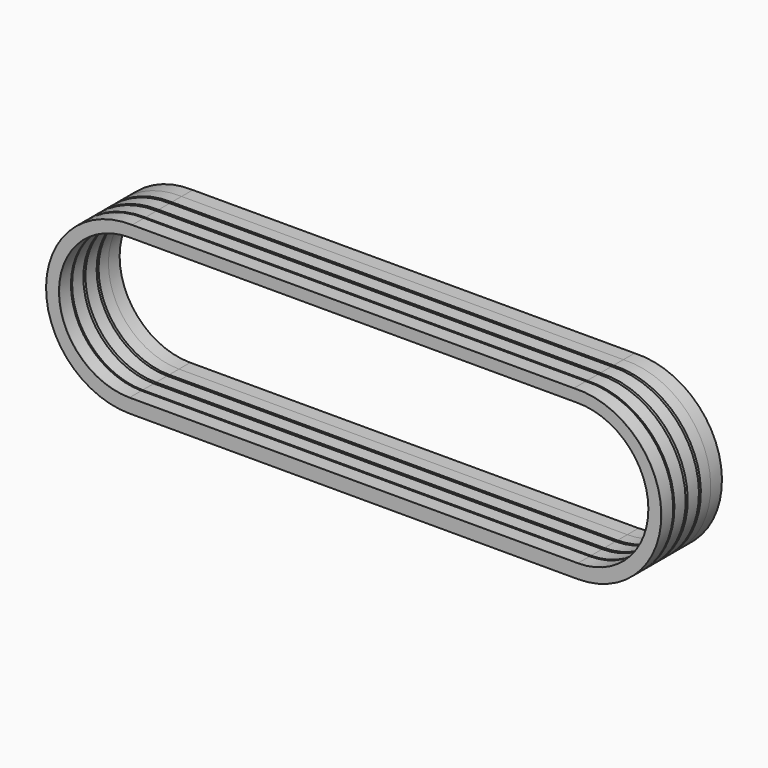
from build123d import *

# Parameters (mm, degrees)
F1_DEPTH = 19.05


with BuildPart() as f1:
    # F0 (on Front) → F1 (new body)
    with BuildSketch(Plane.XZ):
        with BuildLine():
            Line((299.47076, 111.584039), (-301.26875, 111.584039))
            ThreePointArc((-301.26875, 111.584039), (-418.240749, -0.029907), (-304.812952, -115.243867))
            Line((-304.812952, -115.243867), (304.787048, -115.243867))
            ThreePointArc((304.787048, -115.243867), (418.232147, 0.891261), (299.47076, 111.584039))
        make_face()
        with BuildLine():
            ThreePointArc((-304.812952, -96.193867), (-400.727487, -0.279332), (-304.812952, 95.635203))
            Line((-304.812952, 95.635203), (303.014962, 95.635203))
            ThreePointArc((303.014962, 95.635203), (400.705676, 0.614934), (304.787048, -96.193867))
            Line((304.787048, -96.193867), (-304.812952, -96.193867))
        make_face(mode=Mode.SUBTRACT)
    extrude(amount=F1_DEPTH)


with BuildPart() as f2_1:
    # F2: copy of F1
    add(f1.part.moved(Location((0, 22.352, 0))))


with BuildPart() as f3_1:
    # F3: copy of F2_1
    add(f2_1.part.moved(Location((0, -44.958, 0))))


with BuildPart() as f4_1:
    # F4: copy of F2_1
    add(f2_1.part.moved(Location((0, -67.31, 0))))


with BuildPart() as f5_1:
    # F5: copy of F1
    add(f1.part.moved(Location((0, -43.688, 0))))


with BuildPart() as f6_1:
    # F6: copy of F1
    add(f1.part.moved(Location((0, 39.116, 0))))


solid = Compound([f1.part, f2_1.part, f3_1.part, f4_1.part, f5_1.part, f6_1.part])
